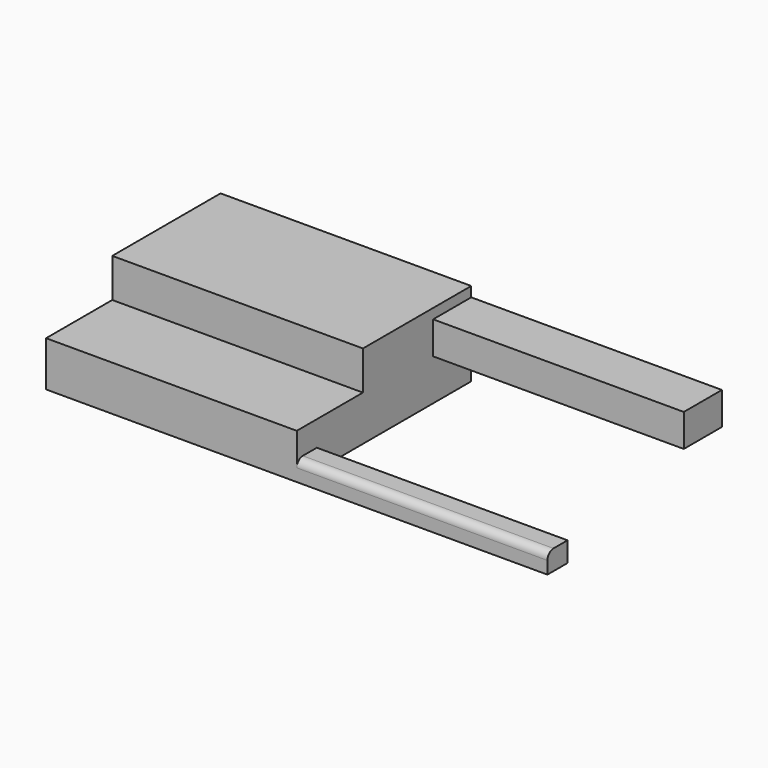
from build123d import *

# Parameters (mm, degrees)
F0_W     = 1000
F0_H     = 330
F1_DEPTH = 180
F0_H_2   = 540
F2_DEPTH = 335
F3_W     = 190
F3_H     = 130
F4_DEPTH = 1000
F6_DEPTH = 1000


with BuildPart() as f1:
    # F0 (on Top) → F1 (new body)
    with BuildSketch(Plane.XY):
        with Locations((500, -705)):
            Rectangle(F0_W, F0_H)
    extrude(amount=F1_DEPTH)

    # F0 (on Top) → F2 (join)
    with BuildSketch(Plane.XY):
        with Locations((500, -270)):
            Rectangle(F0_W, F0_H_2)
    extrude(amount=F2_DEPTH)

    # F3 (on face) → F4 (join)
    with BuildSketch(Plane.YZ.offset(1000)):
        with Locations((-95, 230)):
            Rectangle(F3_W, F3_H)
    extrude(amount=F4_DEPTH)

    # F3 (on face) → F6 (join)
    with BuildSketch(Plane.YZ.offset(1000)):
        with Locations((-95, 230)):
            Rectangle(F3_W, F3_H)
        with BuildLine():
            Line((-870, 50), (-870, 0))
            Line((-870, 0), (-770, 0))
            Line((-770, 0), (-770, 80))
            Line((-770, 80), (-840, 80))
            ThreePointArc((-840, 80), (-861.213203, 71.213203), (-870, 50))
        make_face()
    extrude(amount=F6_DEPTH)


solid = f1.part
